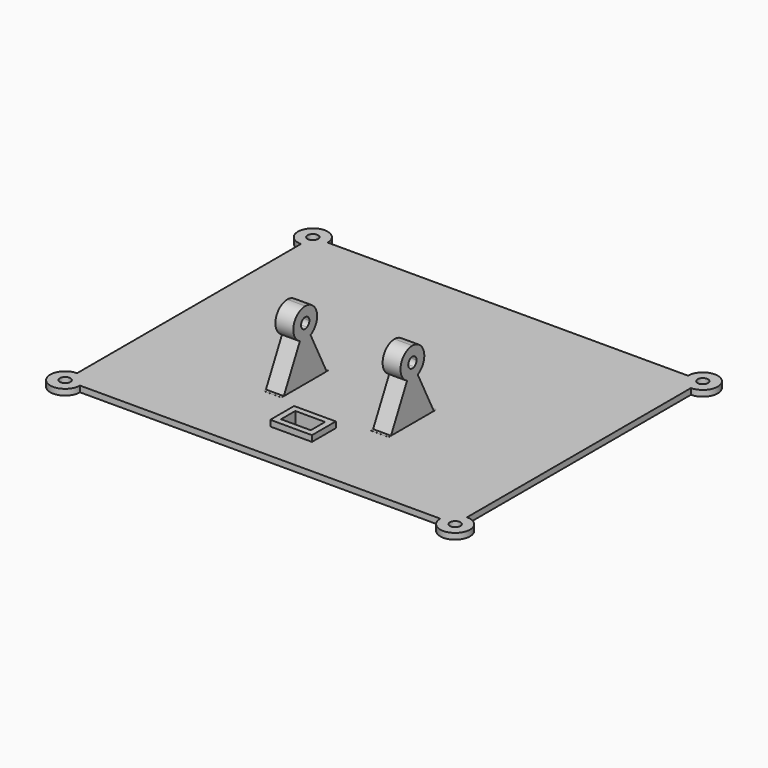
from build123d import *

# Parameters (mm, degrees)
F1_W     = 6
F1_H     = 25
F2_DEPTH = 10
F0_R     = 1.75
F0_W     = 14
F0_H     = 10
F3_DEPTH = 2
F5_DEPTH = 92.844606
F0_W_2   = 10
F0_H_2   = 6
F6_DEPTH = 4


with BuildPart() as f2:
    # F1 (on Front) → F2 (new body, symmetric)
    with BuildSketch(Plane.XZ):
        with Locations((-40.343606, 12.5)):
            Rectangle(F1_W, F1_H)
        with Locations((-4.343606, 12.5)):
            Rectangle(F1_W, F1_H)
    extrude(amount=F2_DEPTH, both=True)

    # F4 (on Right) → F5 (cut, through all)
    with BuildSketch(Plane.YZ):
        with BuildLine():
            Line((8.990668, 2.018665), (10, 2.018665))
            Line((10, 2.018665), (10, 25))
            Line((10, 25), (0, 25))
            ThreePointArc((0, 25), (3.535534, 23.535534), (5, 20))
            ThreePointArc((5, 20), (4.253254, 17.371344), (2.236068, 15.527864))
            Line((2.236068, 15.527864), (8.990668, 2.018665))
        make_face()
        with BuildLine():
            Line((-10, 2.018665), (-8.990668, 2.018665))
            Line((-8.990668, 2.018665), (-2.236068, 15.527864))
            ThreePointArc((-2.236068, 15.527864), (-4.866245, 21.148765), (0, 25))
            Line((0, 25), (-10, 25))
            Line((-10, 25), (-10, 2.018665))
        make_face()
        with BuildLine():
            Line((0, 20), (0.782624, 18.434752))
            ThreePointArc((0.782624, 18.434752), (1.488639, 19.079971), (1.75, 20))
            ThreePointArc((1.75, 20), (-0.920029, 21.488639), (-0.782624, 18.434752))
            Line((-0.782624, 18.434752), (0, 20))
        make_face()
        with BuildLine():
            ThreePointArc((-0.782624, 18.434752), (0, 18.25), (0.782624, 18.434752))
            Line((0.782624, 18.434752), (0, 20))
            Line((0, 20), (-0.782624, 18.434752))
        make_face()
    extrude(amount=-F5_DEPTH, mode=Mode.SUBTRACT)


with BuildPart() as f3:
    # F0 (on Top) → F3 (new body)
    with BuildSketch(Plane.XY):
        with BuildLine():
            ThreePointArc((-82.843606, 66.330806), (-84.309227, 69.867496), (-87.846874, 71.330805))
            ThreePointArc((-87.846874, 71.330805), (-92.843606, 66.329173), (-87.843606, 61.330806))
            Line((-87.843606, 61.330806), (-87.843606, -32.669194))
            ThreePointArc((-87.843606, -32.669194), (-91.37914, -41.204727), (-82.843606, -37.669194))
            Line((-82.843606, -37.669194), (-22.343606, -37.669194))
            Line((-22.343606, -37.669194), (38.156394, -37.669194))
            ThreePointArc((38.156394, -37.669194), (46.691928, -41.204727), (43.156394, -32.669194))
            Line((43.156394, -32.669194), (43.156394, 61.330806))
            ThreePointArc((43.156394, 61.330806), (46.691928, 69.86634), (38.156394, 66.330806))
            Line((38.156394, 66.330806), (-82.843606, 66.330806))
        make_face()
        with Locations((-87.843606, -37.669194)):
            Circle(F0_R, mode=Mode.SUBTRACT)
        with Locations((-22.343606, -19.669194)):
            Rectangle(F0_W, F0_H, mode=Mode.SUBTRACT)
        with Locations((43.156394, -37.669194)):
            Circle(F0_R, mode=Mode.SUBTRACT)
        with Locations((-87.843606, 66.330806)):
            Circle(F0_R, mode=Mode.SUBTRACT)
        with Locations((43.156394, 66.330806)):
            Circle(F0_R, mode=Mode.SUBTRACT)
    extrude(amount=F3_DEPTH)

    # F0 (on Top) → F6 (join)
    with BuildSketch(Plane.XY):
        with Locations((-22.343606, -19.669194)):
            Rectangle(F0_W, F0_H)
        with Locations((-22.343606, -19.669194)):
            Rectangle(F0_W_2, F0_H_2, mode=Mode.SUBTRACT)
    extrude(amount=F6_DEPTH)


solid = Compound([f2.part, f3.part])
